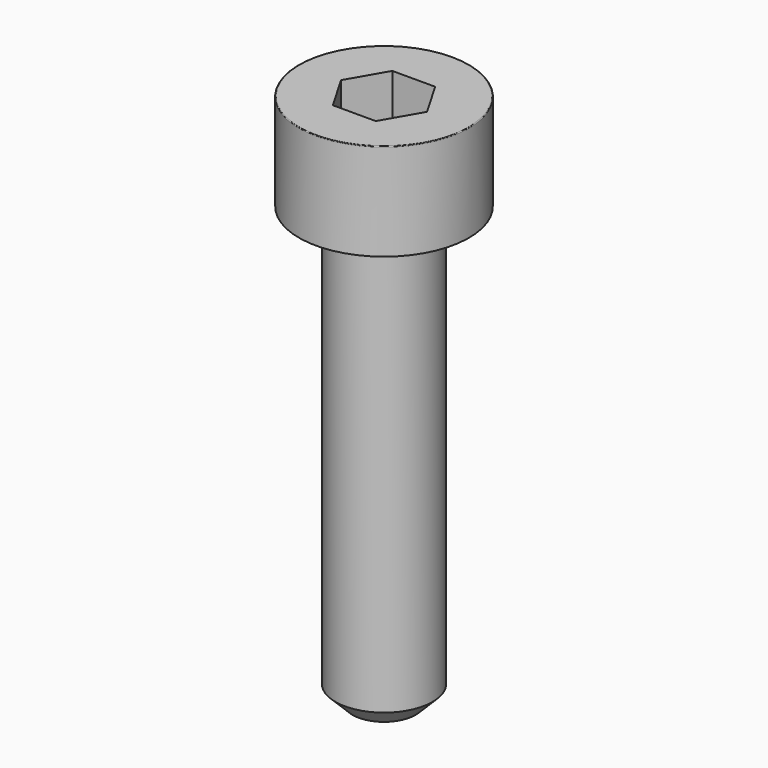
from build123d import *

# Parameters (mm, degrees)
POCKET_DEPTH = 3.06


with BuildPart() as part:
    # Sketch → Revolve (revolve)
    with BuildSketch(Plane.YZ):
        with BuildLine():
            Line((1.999, 0), (3.5, 0))
            Line((3.5, 0), (3.5, 3.97229))
            ThreePointArc((3.5, 3.97229), (3.491884, 3.991884), (3.47229, 4))
            Line((3.47229, 4), (0, 4))
            Line((0, -18), (0, 4))
            Line((1.3, -18), (0, -18))
            Line((2, -17.3), (1.3, -18))
            Line((2, -0.2), (2, -17.3))
            Line((1.999, 0), (2, -0.2))
        make_face()
    revolve(axis=Axis((0, 0, 0), (0, 0, 1)))

    # Sketch001 → Pocket (cut)
    with BuildSketch(Plane.XY.offset(4)):
        Polygon((1.766692, 0), (0.883346, 1.53), (-0.883346, 1.53), (-1.766692, 0), (-0.883346, -1.53), (0.883346, -1.53), align=None)
    extrude(amount=-POCKET_DEPTH, mode=Mode.SUBTRACT)


solid = part.part
